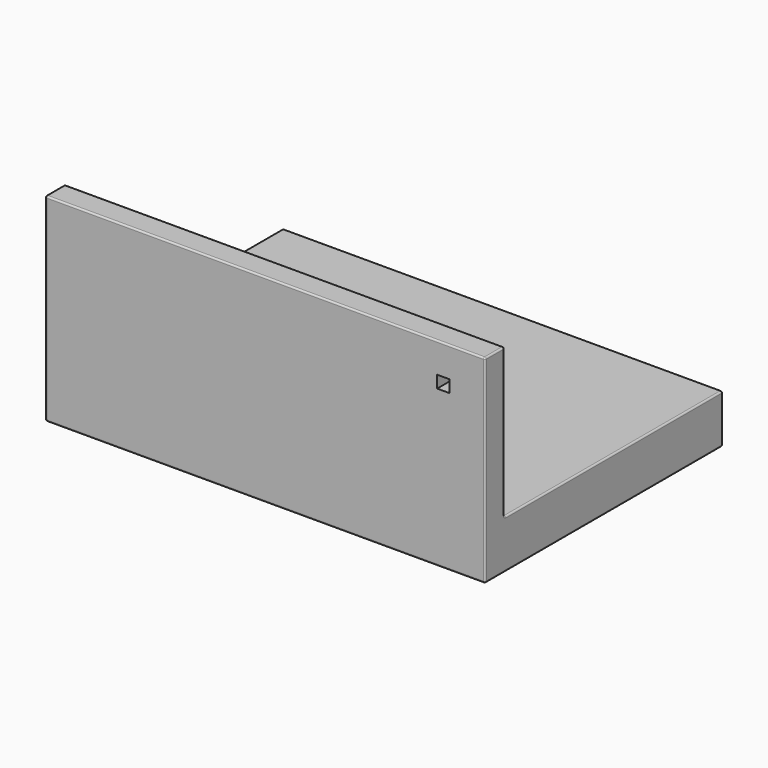
from build123d import *

# Parameters (mm, degrees)
F1_DEPTH   = 685.8
F2_R       = 5.08
F3_W       = 38.1
F3_H       = 38.1
F1_FACE1_W = 1361.44
F1_FACE1_H = 608.8846015944
F4_DEPTH   = 76.201


with BuildPart() as f1:
    # F0 (on Right) → F1 (new body, symmetric)
    with BuildSketch(Plane.YZ):
        Polygon((927.1, 47.7274174528), (76.2, 47.7274174528), (76.2, 514.3720190472), (0, 514.3720190472), (0, -104.6725825472), (76.2, -104.6725825472), (927.1, -104.6725825472), align=None)
    extrude(amount=F1_DEPTH, both=True)

    # F2
    f2_edges = [f1.edges().sort_by_distance(p)[0] for p in [
        (0, 76.2, 514.372019),
        (685.8, 76.2, 281.049718),
        (-685.8, 76.2, 281.049718),
        (685.8, 501.65, 47.727417),
        (0, 927.1, 47.727417),
        (-685.8, 501.65, 47.727417),
        (0, 76.2, 47.727417),
        (685.8, 927.1, -28.472583),
        (-685.8, 927.1, -28.472583),
        (0, 927.1, -104.672583),
        (685.8, 463.55, -104.672583),
        (685.8, 0, 204.849718),
        (685.8, 38.1, 514.372019),
        (0, 0, 514.372019),
        (-685.8, 38.1, 514.372019),
        (-685.8, 0, 204.849718),
        (-685.8, 463.55, -104.672583),
        (0, 0, -104.672583),
    ]]
    fillet(f2_edges, radius=F2_R)

    # F3 (on face) + F1_face1 (on face) → F4 (cut, through all)
    with BuildSketch(Plane(origin=(0, 76.2, 0), x_dir=(-1, 0, 0), z_dir=(0, 1, 0))):
        with Locations((-555.6620976448, 401.3420190472)):
            Rectangle(F3_W, F3_H)
    with BuildSketch(Plane(origin=(0, 0, 204.84971825), x_dir=(1, 0, 0), z_dir=(0, -1, 0))):
        Rectangle(F1_FACE1_W, F1_FACE1_H)
    extrude(amount=-F4_DEPTH, dir=(0, 1, 0), mode=Mode.SUBTRACT)


solid = f1.part
